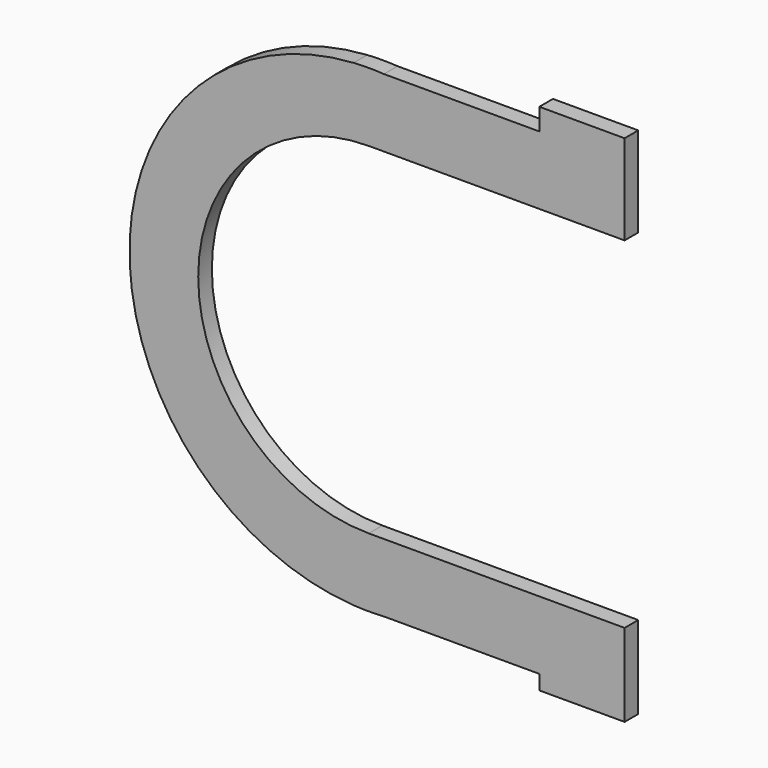
from build123d import *

# Parameters (mm, degrees)
F1_DEPTH = 12.7


with BuildPart() as f1:
    # F0 (on Front) → F1 (new body)
    with BuildSketch(Plane.XZ):
        with BuildLine():
            ThreePointArc((-11.304572, 177.8), (-178.159011, 0), (-11.304572, -177.8))
            Line((-11.304572, -177.8), (11.304572, -177.8))
            Line((11.304572, -177.8), (127, -177.8))
            Line((127, -177.8), (127, -188.641414))
            Line((127, -188.641414), (190.5, -188.641414))
            Line((190.5, -188.641414), (190.5, -177.8))
            Line((190.5, -177.8), (190.5, -127))
            Line((190.5, -127), (127, -127))
            Line((127, -127), (0, -127))
            ThreePointArc((0, -127), (-127, 0), (0, 127))
            Line((0, 127), (127, 127))
            Line((127, 127), (190.5, 127))
            Line((190.5, 127), (190.5, 177.8))
            Line((190.5, 177.8), (190.5, 193.979412))
            Line((190.5, 193.979412), (127, 193.979412))
            Line((127, 193.979412), (127, 177.8))
            Line((127, 177.8), (11.304572, 177.8))
            Line((11.304572, 177.8), (-11.304572, 177.8))
        make_face()
        with BuildLine():
            Line((11.304572, -177.8), (-11.304572, -177.8))
            ThreePointArc((-11.304572, -177.8), (0, -178.159011), (11.304572, -177.8))
        make_face()
        with BuildLine():
            ThreePointArc((11.304572, 177.8), (0, 178.159011), (-11.304572, 177.8))
            Line((-11.304572, 177.8), (11.304572, 177.8))
        make_face()
    extrude(amount=F1_DEPTH)


solid = f1.part
